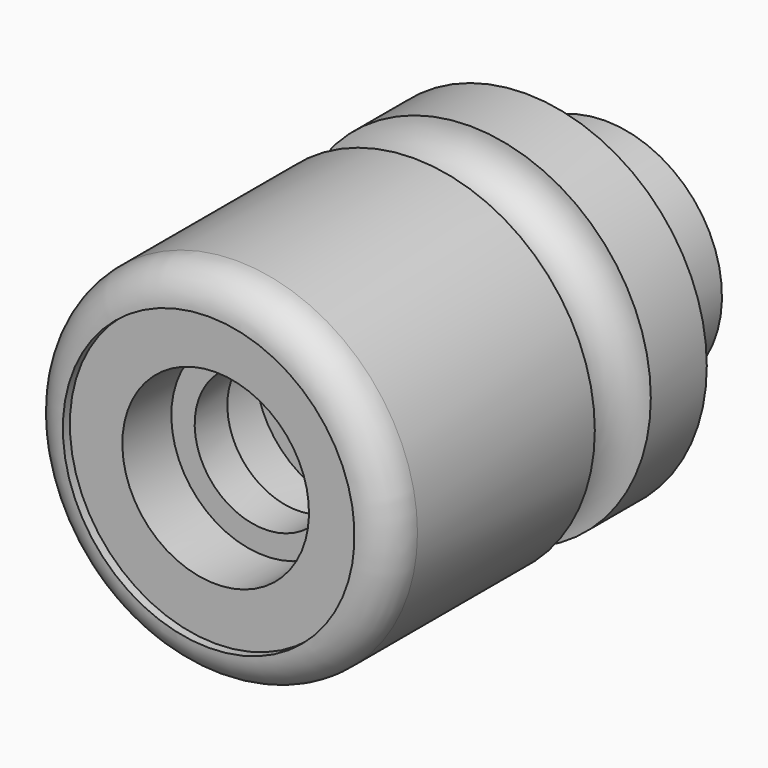
from build123d import *

# Parameters (mm, degrees)
F0_W   = 3
F0_H   = 16
F2_W   = 7
F2_H   = 12
F2_W_2 = 58
F2_H_2 = 8


with BuildPart() as f1:
    # F0 (on Right) → F1 (revolve)
    with BuildSketch(Plane.YZ):
        with BuildLine():
            Line((-44, 0), (0, 0))
            Line((0, 0), (0, 31))
            Line((0, 31), (-38, 31))
            ThreePointArc((-38, 31), (-42.242641, 29.242641), (-44, 25))
            Line((-44, 25), (-44, 0))
        make_face()
        with BuildLine():
            Line((0, 31), (0, 0))
            Line((0, 0), (12, 0))
            Line((12, 0), (12, 31))
            ThreePointArc((12, 31), (6, 25), (0, 31))
        make_face()
        Polygon((12, 31), (12, 0), (24, 0), (24, 20), (24, 31), align=None)
        Polygon((24, 20), (24, 0), (41, 0), (41, 16), (41, 20), align=None)
        with Locations((42.5, 8)):
            Rectangle(F0_W, F0_H)
    revolve(axis=Axis((0, 6, 0), (0, 1, 0)))

    # F2 (on Right) → F3 (revolve, cut)
    with BuildSketch(Plane.YZ):
        Polygon((-42.5, 25), (-44, 25), (-44, 0), (-42.5, 0), (-42.5, 16), align=None)
        Polygon((-32, 16), (-42.5, 16), (-42.5, 0), (-32, 0), (-32, 12), align=None)
        with Locations((-28.5, 6)):
            Rectangle(F2_W, F2_H)
        Polygon((-25, 12), (-25, 0), (-22, 0), (-22, 16), (-22, 20.5), (-25, 20.5), align=None)
        Polygon((-22, 16), (-22, 0), (-14, 0), (-14, 8), (-14, 16), align=None)
        with Locations((15, 4)):
            Rectangle(F2_W_2, F2_H_2)
    revolve(axis=Axis((0, 15, 0), (0, 1, 0)), mode=Mode.SUBTRACT)


solid = f1.part
